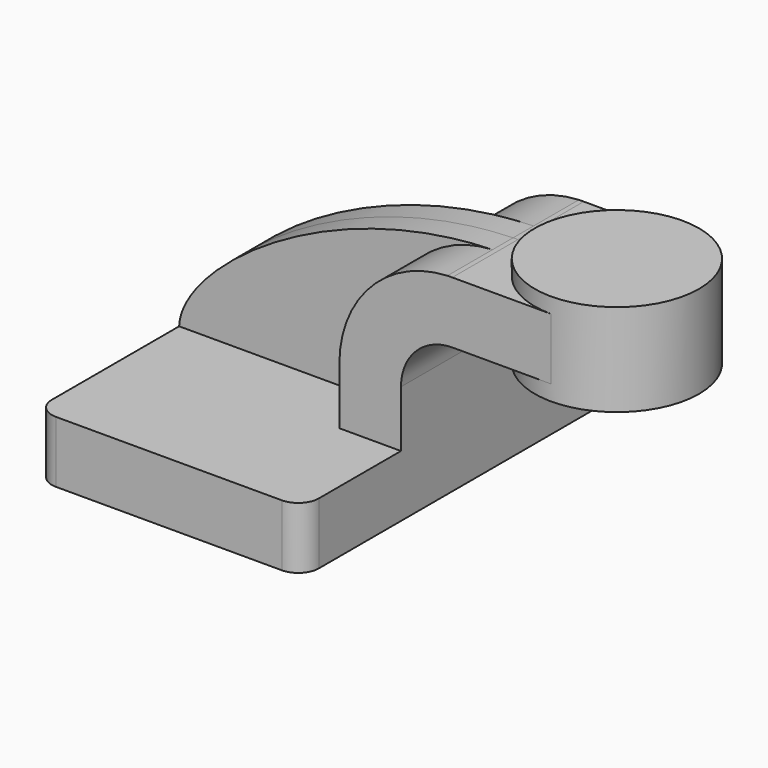
from build123d import *

# Parameters (mm, degrees)
F1_DEPTH = 63.5
F2_DEPTH = 25.4
F3_DEPTH = 7.9375
F0_W     = 25.4
F0_H     = 19.05
F4_DEPTH = 25.4
F6_R     = 6.35


with BuildPart() as f1:
    # F0 (on Front) → F1 (new body, symmetric)
    with BuildSketch(Plane.XZ):
        Polygon((-41.275, 9.525), (-41.275, -9.525), (41.275, -9.525), (41.275, 9.525), (22.225, 9.525), align=None)
    extrude(amount=F1_DEPTH, both=True)

    # F0 (on Front) → F2 (join, symmetric)
    with BuildSketch(Plane.XZ):
        with BuildLine():
            Line((22.225, 9.525), (41.275, 9.525))
            Line((41.275, 9.525), (41.275, 27.0002))
            ThreePointArc((41.275, 27.0002), (45.9246798487, 38.2255201513), (57.15, 42.8752))
            Line((57.15, 42.8752), (62.3217315116, 42.8752))
            Line((62.3217315116, 42.8752), (62.3217315116, 61.9252))
            Line((62.3217315116, 61.9252), (57.15, 61.9252))
            add(Edge.make_bspline(
                [(55.6203273588, 61.8916850158), (56.1294251185, 61.9058990464), (56.639326625, 61.9170854616), (57.15, 61.9252)],
                knots=[110.4319750844, 110.4319750844, 110.4319750844, 110.4319750844, 111.5045361635, 111.5045361635, 111.5045361635, 111.5045361635], degree=3))
            ThreePointArc((55.6203273588, 61.8916850158), (31.9192703039, 51.1490282118), (22.225, 27.0002))
            Line((22.225, 27.0002), (22.225, 9.525))
        make_face()
    extrude(amount=F2_DEPTH, both=True)

    # F0 (on Front) → F3 (join, symmetric)
    with BuildSketch(Plane.XZ):
        with BuildLine():
            add(Edge.make_bspline(
                [(-41.275, 9.525), (-40.6936184634, 26.8690425338), (3.2031063652, 60.4281940287), (55.6203273588, 61.8916850158)],
                knots=[0, 0, 0, 0, 110.4319750844, 110.4319750844, 110.4319750844, 110.4319750844], degree=3))
            Line((-41.275, 9.525), (22.225, 9.525))
            Line((22.225, 9.525), (22.225, 27.0002))
            ThreePointArc((22.225, 27.0002), (31.9192703039, 51.1490282118), (55.6203273588, 61.8916850158))
        make_face()
    extrude(amount=F3_DEPTH, both=True)

    # F0 (on Front) → F4 (join, symmetric)
    with BuildSketch(Plane.XZ):
        with Locations((75.0217315116, 52.4002)):
            Rectangle(F0_W, F0_H)
    extrude(amount=F4_DEPTH, both=True)

    # F0 (on Front) → F5 (revolve)
    with BuildSketch(Plane.XZ):
        Polygon((87.7217315116, 66.675), (87.7217315116, 61.9252), (87.7217315116, 42.8752), (87.7217315116, 38.1), (113.1217315116, 38.1), (113.1217315116, 66.675), align=None)
    revolve(axis=Axis((87.7217315116, 0, 52.3875), (0, 0, 1)))

    # F6
    f6_edges = [f1.edges().sort_by_distance(p)[0] for p in [
        (41.275, 63.5, 0),
        (-41.275, 63.5, 0),
        (-41.275, -63.5, 0),
        (41.275, -63.5, 0),
    ]]
    fillet(f6_edges, radius=F6_R)


solid = f1.part
